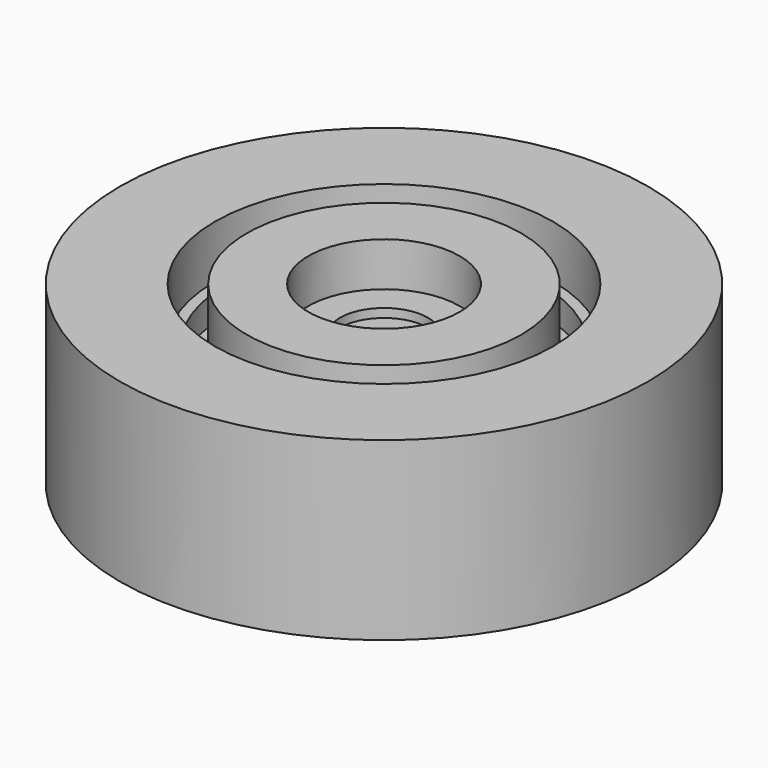
from build123d import *

# Parameters (mm, degrees)
CYLINDER002_R     = 9
CYLINDER002_DEPTH = 1.5
CYLINDER001_R     = 9.6
CYLINDER001_DEPTH = 3
CYLINDER_R        = 15
CYLINDER_DEPTH    = 10
CYLINDER004_R     = 4.3
CYLINDER004_DEPTH = 2.5
CYLINDER003_R     = 7.8
CYLINDER003_DEPTH = 2.5
CYLINDER006_R     = 2.5
CYLINDER006_DEPTH = 0.5
CYLINDER005_R     = 7.8
CYLINDER005_DEPTH = 0.5


with BuildPart() as cylinder002:
    # Cylinder002 → Cylinder002 (new body)
    with BuildSketch(Plane.XY.offset(5.5)):
        Circle(CYLINDER002_R)
    extrude(amount=CYLINDER002_DEPTH)


with BuildPart() as cylinder001:
    # Cylinder001 → Cylinder001 (new body)
    with BuildSketch(Plane.XY.offset(7)):
        Circle(CYLINDER001_R)
    extrude(amount=CYLINDER001_DEPTH)


with BuildPart() as pad:
    # Cylinder → Cylinder (new body)
    with BuildSketch(Plane.XY):
        Circle(CYLINDER_R)
    extrude(amount=CYLINDER_DEPTH)

    # Cut: cut Cylinder001
    add(cylinder001.part, mode=Mode.SUBTRACT)

    # Cut001: cut Cylinder002
    add(cylinder002.part, mode=Mode.SUBTRACT)


with BuildPart() as cylinder004:
    # Cylinder004 → Cylinder004 (new body)
    with BuildSketch(Plane.XY.offset(7.5)):
        Circle(CYLINDER004_R)
    extrude(amount=CYLINDER004_DEPTH)


with BuildPart() as obj1:
    # Cylinder003 → Cylinder003 (new body)
    with BuildSketch(Plane.XY.offset(7.5)):
        Circle(CYLINDER003_R)
    extrude(amount=CYLINDER003_DEPTH)

    # Cut002: cut Cylinder004
    add(cylinder004.part, mode=Mode.SUBTRACT)


with BuildPart() as cylinder006:
    # Cylinder006 → Cylinder006 (new body)
    with BuildSketch(Plane.XY.offset(7)):
        Circle(CYLINDER006_R)
    extrude(amount=CYLINDER006_DEPTH)


with BuildPart() as obj2:
    # Cylinder005 → Cylinder005 (new body)
    with BuildSketch(Plane.XY.offset(7)):
        Circle(CYLINDER005_R)
    extrude(amount=CYLINDER005_DEPTH)

    # Cut003: cut Cylinder006
    add(cylinder006.part, mode=Mode.SUBTRACT)


solid = Compound([pad.part, obj1.part, obj2.part])
